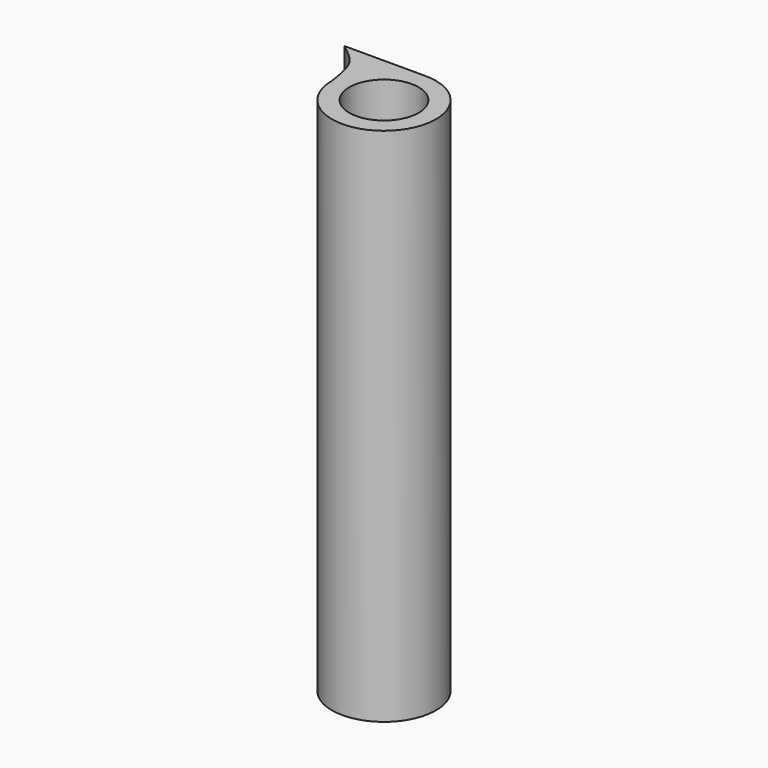
from build123d import *

# Parameters (mm, degrees)
F0_R     = 1
F1_DEPTH = 15


with BuildPart() as f1:
    # F0 (on Top) → F1 (new body)
    with BuildSketch(Plane.XY):
        with BuildLine():
            add(Edge.make_bspline(
                [(-2.3347819224, 1.5), (-2.1508585648, 1.3565082639), (-1.81425597, 1.0939005597), (-1.6023326906, 0.6729244892), (-1.536364652, 0.2391285198), (-1.5, 0)],
                knots=[0, 0, 0, 0, 0.3508963145, 0.6421838504, 1, 1, 1, 1], degree=3))
            ThreePointArc((-1.5, 0), (1.0606601718, -1.0606601718), (0, 1.5))
            Line((0, 1.5), (-2.3347819224, 1.5))
        make_face()
        Circle(F0_R, mode=Mode.SUBTRACT)
    extrude(amount=F1_DEPTH)


solid = f1.part
